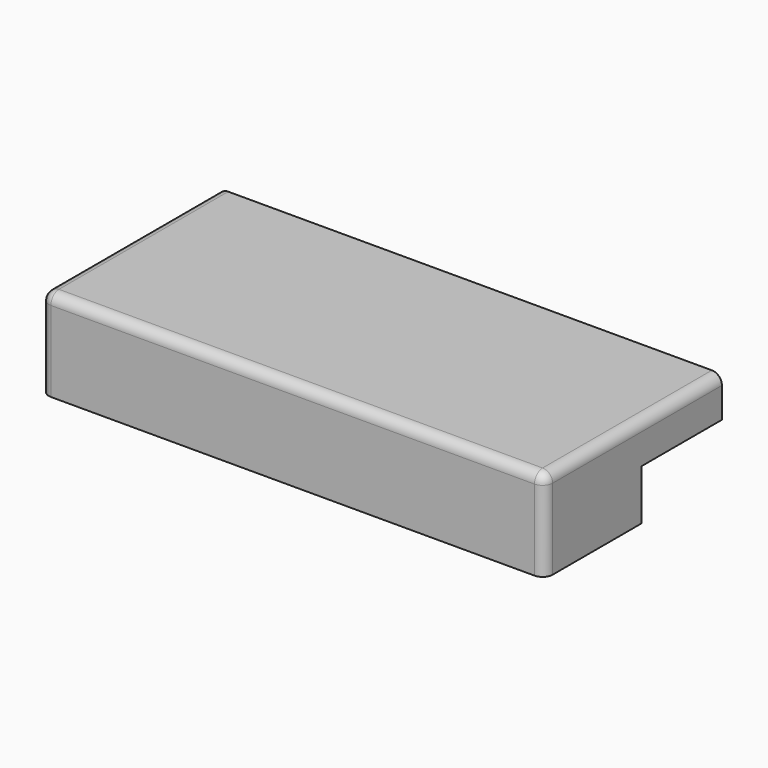
from build123d import *

# Parameters (mm, degrees)
F0_W     = 25
F0_H     = 6
F1_DEPTH = 4.5
F3_DEPTH = 5
F4_R     = 0.5
F5_R     = 0.5


with BuildPart() as f1:
    # F0 (on Top) → F1 (new body)
    with BuildSketch(Plane.XY):
        Rectangle(F0_W, F0_H)
    extrude(amount=F1_DEPTH)

    # F2 (on face) → F3 (join)
    with BuildSketch(Plane(origin=(0, 3, 0), x_dir=(-1, 0, 0), z_dir=(0, 1, 0))):
        Polygon((-12.5, 4.5), (-12.5, 2.5), (10.169396, 2.5), (12.5, 2.5), (12.5, 4.5), align=None)
    extrude(amount=F3_DEPTH)

    # F4
    f4_edges = [f1.edges().sort_by_distance(p)[0] for p in [
        (0, -3, 4.5),
    ]]
    fillet(f4_edges, radius=F4_R)

    # F5
    f5_edges = [f1.edges().sort_by_distance(p)[0] for p in [
        (12.5, 2.75, 4.5),
        (-12.5, 2.75, 4.5),
    ]]
    fillet(f5_edges, radius=F5_R)


solid = f1.part
